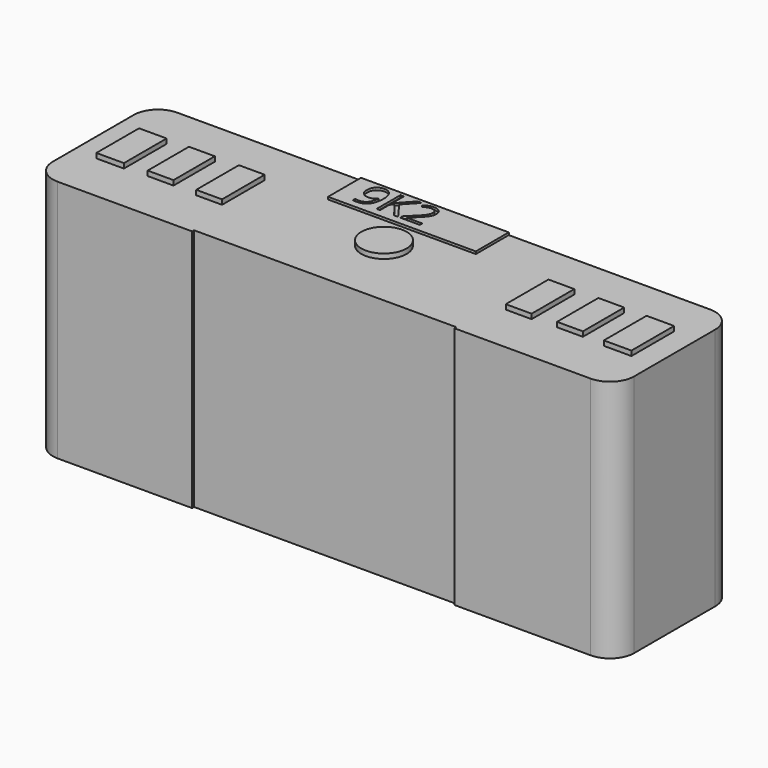
from build123d import *

# Parameters (mm, degrees)
F0_W      = 24.1
F0_H      = 10.1
F1_DEPTH  = 3.1
F2_W      = 1.1417344213
F2_H      = 2.2121103248
F2_W_2    = 1.0703755543
F2_H_2    = 2.1407519816
F2_W_3    = 1.0703760199
F2_R      = 0.9384971682
F3_DEPTH  = 0.2
F4_R      = 1
F5_R      = 1
F6_R      = 1
F7_R      = 1
F8_W      = 10.8690736815
F8_H      = 10.1
F9_DEPTH  = 0.1
F10_W     = 6.1270436272
F10_H     = 1.7071549356
F11_DEPTH = 0.1


with BuildPart() as f1:
    # F0 (on Front) → F1 (new body, symmetric)
    with BuildSketch(Plane.XZ):
        Rectangle(F0_W, F0_H)
    extrude(amount=F1_DEPTH, both=True)

    # F2 (on face) → F3 (join)
    with BuildSketch(Plane.XY.offset(5.05)):
        with Locations((-10.5197010562, 0.0642262748)):
            Rectangle(F2_W, F2_H)
        with Locations((-8.4859863855, 0.0999054464)):
            Rectangle(F2_W_2, F2_H_2)
        with Locations((-6.4165925141, 0.0642262748)):
            Rectangle(F2_W_3, F2_H)
        with Locations((6.4165925141, 0.0642262748)):
            Rectangle(F2_W_3, F2_H)
        with Locations((8.4859863855, 0.0999054464)):
            Rectangle(F2_W_2, F2_H_2)
        with Locations((10.5197010562, 0.0642262748)):
            Rectangle(F2_W, F2_H)
        Circle(F2_R)
    extrude(amount=F3_DEPTH)

    # F4
    f4_edges = [f1.edges().sort_by_distance(p)[0] for p in [
        (-12.05, 3.1, 0),
    ]]
    fillet(f4_edges, radius=F4_R)

    # F5
    f5_edges = [f1.edges().sort_by_distance(p)[0] for p in [
        (-12.05, -3.1, 0),
    ]]
    fillet(f5_edges, radius=F5_R)

    # F6
    f6_edges = [f1.edges().sort_by_distance(p)[0] for p in [
        (12.05, 3.1, 0),
    ]]
    fillet(f6_edges, radius=F6_R)

    # F7
    f7_edges = [f1.edges().sort_by_distance(p)[0] for p in [
        (12.05, -3.1, 0),
    ]]
    fillet(f7_edges, radius=F7_R)

    # F8 (on face) → F9 (cut)
    with BuildSketch(Plane.XZ.offset(3.1)):
        with Locations((-0.0399495475, 0)):
            Rectangle(F8_W, F8_H)
    extrude(amount=-F9_DEPTH, mode=Mode.SUBTRACT)

    # F10 (on face) → F11 (join)
    with BuildSketch(Plane.XY.offset(5.05)):
        with Locations((-0.3709765151, 2.2464225322)):
            Rectangle(F10_W, F10_H)
        with BuildLine():
            add(Edge.make_bspline(
                [(-1.9910920446, 2.7120085217), (-1.9402540003, 2.5879636937), (-1.9402540003, 2.4193169547)],
                knots=[0, 0, 0, 1, 1, 1], degree=2))
            add(Edge.make_bspline(
                [(-1.9402540003, 2.4193169547), (-1.9402540003, 1.6921295692), (-2.5028616905, 1.6921295692)],
                knots=[0, 0, 0, 1, 1, 1], degree=2))
            add(Edge.make_bspline(
                [(-2.5028616905, 1.6921295692), (-2.6012841443, 1.6921295692), (-2.6587650264, 1.709211152)],
                knots=[0, 0, 0, 1, 1, 1], degree=2))
            Line((-2.6587650264, 1.709211152), (-2.6587650264, 1.8304090496))
            add(Edge.make_bspline(
                [(-2.6587650264, 1.8304090496), (-2.5909809673, 1.8084470145), (-2.5047596442, 1.8084470145)],
                knots=[0, 0, 0, 1, 1, 1], degree=2))
            add(Edge.make_bspline(
                [(-2.5047596442, 1.8084470145), (-2.301407467, 1.8084470145), (-2.1975622885, 1.9342542281)],
                knots=[0, 0, 0, 1, 1, 1], degree=2))
            add(Edge.make_bspline(
                [(-2.1975622885, 1.9342542281), (-2.0937171101, 2.0600614417), (-2.084498478, 2.3200810923)],
                knots=[0, 0, 0, 1, 1, 1], degree=2))
            Line((-2.084498478, 2.3200810923), (-2.0945305188, 2.3200810923))
            add(Edge.make_bspline(
                [(-2.0945305188, 2.3200810923), (-2.1411659514, 2.2498568071), (-2.2183042106, 2.212982279)],
                knots=[0, 0, 0, 1, 1, 1], degree=2))
            add(Edge.make_bspline(
                [(-2.2183042106, 2.212982279), (-2.2954424698, 2.1761077508), (-2.3919669699, 2.1761077508)],
                knots=[0, 0, 0, 1, 1, 1], degree=2))
            add(Edge.make_bspline(
                [(-2.3919669699, 2.1761077508), (-2.5562755291, 2.1761077508), (-2.6529355973, 2.2743946365)],
                knots=[0, 0, 0, 1, 1, 1], degree=2))
            add(Edge.make_bspline(
                [(-2.6529355973, 2.2743946365), (-2.7495956655, 2.3726815221), (-2.7495956655, 2.5489200756)],
                knots=[0, 0, 0, 1, 1, 1], degree=2))
            add(Edge.make_bspline(
                [(-2.7495956655, 2.5489200756), (-2.7495956655, 2.7419690758), (-2.6415478754, 2.8538127733)],
                knots=[0, 0, 0, 1, 1, 1], degree=2))
            add(Edge.make_bspline(
                [(-2.6415478754, 2.8538127733), (-2.5335000852, 2.9656564707), (-2.3572615317, 2.9656564707)],
                knots=[0, 0, 0, 1, 1, 1], degree=2))
            add(Edge.make_bspline(
                [(-2.3572615317, 2.9656564707), (-2.2309120456, 2.9656564707), (-2.1364210673, 2.9008549103)],
                knots=[0, 0, 0, 1, 1, 1], degree=2))
            add(Edge.make_bspline(
                [(-2.1364210673, 2.9008549103), (-2.0419300889, 2.8360533498), (-1.9910920446, 2.7120085217)],
                knots=[0, 0, 0, 1, 1, 1], degree=2))
        make_face(mode=Mode.SUBTRACT)
        Polygon((-1.2990168017, 2.4098271865), (-0.7822311354, 1.709211152), (-0.9516912831, 1.709211152), (-1.4031331164, 2.3100490515), (-1.5330073735, 2.1948161511), (-1.5330073735, 1.709211152), (-1.676980715, 1.709211152), (-1.676980715, 2.9480326154), (-1.5330073735, 2.9480326154), (-1.5330073735, 2.3336379041), (-0.9712130921, 2.9480326154), (-0.8009395357, 2.9480326154), align=None, mode=Mode.SUBTRACT)
        with BuildLine():
            Line((0.1168566239, 1.8396276817), (0.1168566239, 1.709211152))
            Line((0.1168566239, 1.709211152), (-0.6973654935, 1.709211152))
            Line((-0.6973654935, 1.709211152), (-0.6973654935, 1.8304090496))
            Line((-0.6973654935, 1.8304090496), (-0.3711886013, 2.1582127592))
            add(Edge.make_bspline(
                [(-0.3711886013, 2.1582127592), (-0.2220636714, 2.3092356428), (-0.17461483, 2.3736304989)],
                knots=[0, 0, 0, 1, 1, 1], degree=2))
            add(Edge.make_bspline(
                [(-0.17461483, 2.3736304989), (-0.1271659887, 2.438025355), (-0.103441568, 2.4990310082)],
                knots=[0, 0, 0, 1, 1, 1], degree=2))
            add(Edge.make_bspline(
                [(-0.103441568, 2.4990310082), (-0.0797171473, 2.5600366613), (-0.0797171473, 2.6302609465)],
                knots=[0, 0, 0, 1, 1, 1], degree=2))
            add(Edge.make_bspline(
                [(-0.0797171473, 2.6302609465), (-0.0797171473, 2.729496809), (-0.1399093918, 2.7875199635)],
                knots=[0, 0, 0, 1, 1, 1], degree=2))
            add(Edge.make_bspline(
                [(-0.1399093918, 2.7875199635), (-0.2001016362, 2.8455431181), (-0.3069293133, 2.8455431181)],
                knots=[0, 0, 0, 1, 1, 1], degree=2))
            add(Edge.make_bspline(
                [(-0.3069293133, 2.8455431181), (-0.3839320044, 2.8455431181), (-0.4530717446, 2.8200563119)],
                knots=[0, 0, 0, 1, 1, 1], degree=2))
            add(Edge.make_bspline(
                [(-0.4530717446, 2.8200563119), (-0.5222114849, 2.7945695057), (-0.6068059906, 2.7275988553)],
                knots=[0, 0, 0, 1, 1, 1], degree=2))
            Line((-0.6068059906, 2.7275988553), (-0.6813684555, 2.8233099467))
            add(Edge.make_bspline(
                [(-0.6813684555, 2.8233099467), (-0.5102814905, 2.9656564707), (-0.3085561307, 2.9656564707)],
                knots=[0, 0, 0, 1, 1, 1], degree=2))
            add(Edge.make_bspline(
                [(-0.3085561307, 2.9656564707), (-0.1339443946, 2.9656564707), (-0.0348441003, 2.8763170809)],
                knots=[0, 0, 0, 1, 1, 1], degree=2))
            add(Edge.make_bspline(
                [(-0.0348441003, 2.8763170809), (0.0642561941, 2.7869776911), (0.0642561941, 2.6362259437)],
                knots=[0, 0, 0, 1, 1, 1], degree=2))
            add(Edge.make_bspline(
                [(0.0642561941, 2.6362259437), (0.0642561941, 2.518281681), (-0.0019010476, 2.4030487806)],
                knots=[0, 0, 0, 1, 1, 1], degree=2))
            add(Edge.make_bspline(
                [(-0.0019010476, 2.4030487806), (-0.0680582892, 2.2878158802), (-0.249177295, 2.1115773266)],
                knots=[0, 0, 0, 1, 1, 1], degree=2))
            Line((-0.249177295, 2.1115773266), (-0.5203135312, 1.8464060876))
            Line((-0.5203135312, 1.8464060876), (-0.5203135312, 1.8396276817))
            Line((-0.5203135312, 1.8396276817), (0.1168566239, 1.8396276817))
        make_face(mode=Mode.SUBTRACT)
    extrude(amount=F11_DEPTH)


solid = f1.part
